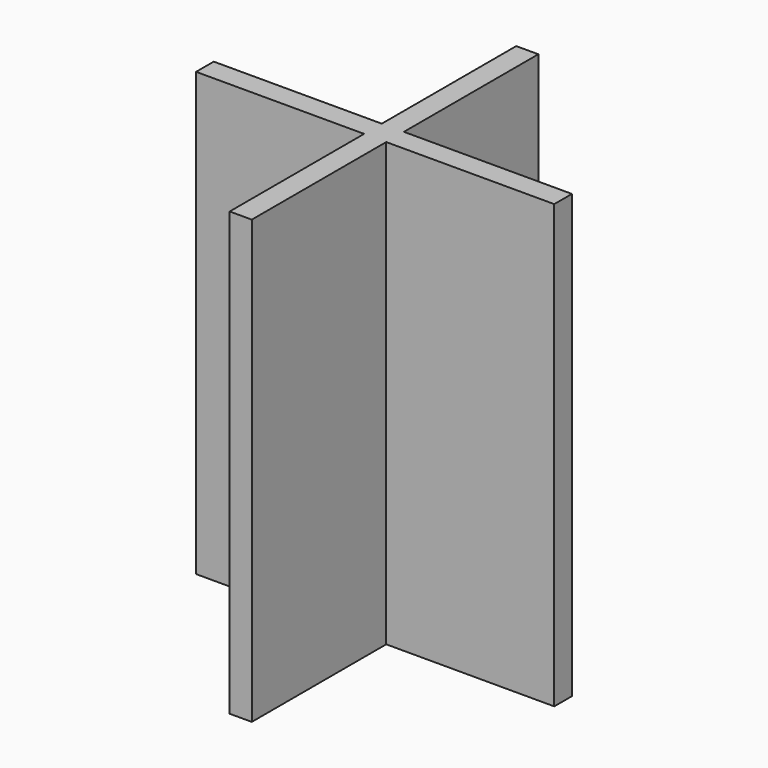
from build123d import *

# Parameters (mm, degrees)
F0_W     = 380
F0_H     = 50
F0_W_2   = 50
F0_H_2   = 380
F1_DEPTH = 1000


with BuildPart() as f1:
    # F0 (on Top) → F1 (new body)
    with BuildSketch(Plane.XY):
        with Locations((-216.727231, -26.01678)):
            Rectangle(F0_W, F0_H)
        with Locations((213.272769, -26.01678)):
            Rectangle(F0_W, F0_H)
        with Locations((-1.727231, 188.98322)):
            Rectangle(F0_W_2, F0_H_2)
        Polygon((0, -51.01678), (-26.727231, -51.01678), (-26.727231, -431.01678), (23.272769, -431.01678), (23.272769, -51.01678), align=None)
        Polygon((23.272769, -1.01678), (-26.727231, -1.01678), (-26.727231, -51.01678), (0, -51.01678), (23.272769, -51.01678), align=None)
    extrude(amount=F1_DEPTH)


solid = f1.part
